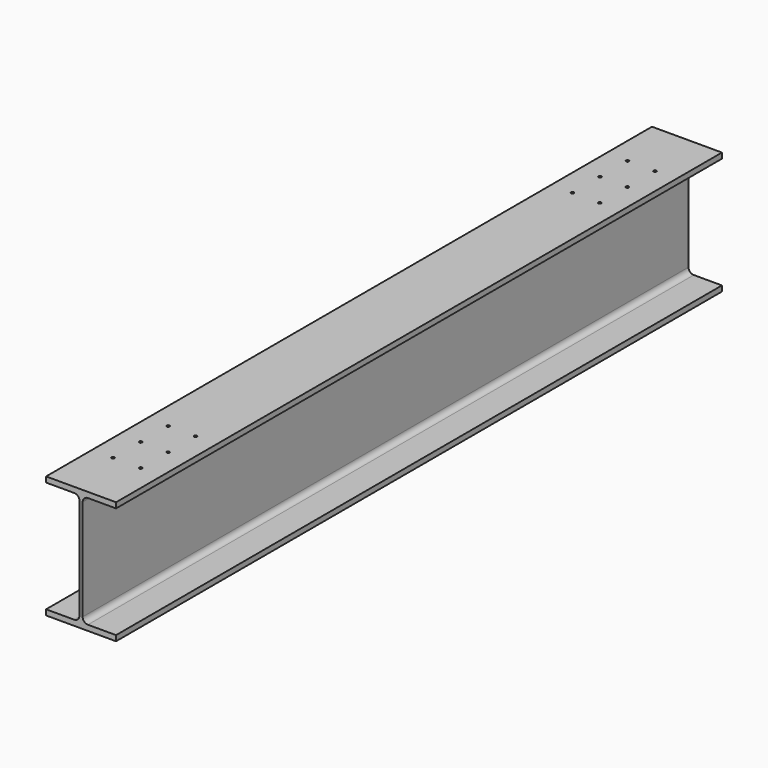
from build123d import *

# Parameters (mm, degrees)
F1_DEPTH = 1100
F3_D     = 4.2
F3_DEPTH = 50
F3_TIP   = 1.2618073


with BuildPart() as f1:
    # F0 (on Front) → F1 (new body)
    with BuildSketch(Plane.XZ):
        with BuildLine():
            Line((-9.95, -35.5939323668), (-50.8, -35.5939323668))
            Line((-50.8, -35.5939323668), (-50.8, -43.4939323668))
            Line((-50.8, -43.4939323668), (0, -43.4939323668))
            Line((0, -43.4939323668), (0, 134.3060676332))
            Line((0, 134.3060676332), (-50.8, 134.3060676332))
            Line((-50.8, 134.3060676332), (-50.8, 126.4060676332))
            Line((-50.8, 126.4060676332), (-9.95, 126.4060676332))
            ThreePointArc((-9.95, 126.4060676332), (-4.575988463, 124.1800791702), (-2.35, 118.8060676332))
            Line((-2.35, 118.8060676332), (-2.35, -27.9939323668))
            ThreePointArc((-2.35, -27.9939323668), (-4.575988463, -33.3679439038), (-9.95, -35.5939323668))
        make_face()
        with BuildLine():
            Line((0, 134.3060676332), (0, -43.4939323668))
            Line((0, -43.4939323668), (50.8, -43.4939323668))
            Line((50.8, -43.4939323668), (50.8, -35.5939323668))
            Line((50.8, -35.5939323668), (9.95, -35.5939323668))
            ThreePointArc((9.95, -35.5939323668), (4.575988463, -33.3679439038), (2.35, -27.9939323668))
            Line((2.35, -27.9939323668), (2.35, 118.8060676332))
            ThreePointArc((2.35, 118.8060676332), (4.575988463, 124.1800791702), (9.95, 126.4060676332))
            Line((9.95, 126.4060676332), (50.8, 126.4060676332))
            Line((50.8, 126.4060676332), (50.8, 134.3060676332))
            Line((50.8, 134.3060676332), (0, 134.3060676332))
        make_face()
    extrude(amount=F1_DEPTH)

    # F3
    with Locations(Plane.XY.offset(134.3060676332)):
        with Locations((-20, -1017), (-20, -967), (-20, -917), (20, -917), (20, -967), (20, -1017), (-20, -183), (-20, -133), (-20, -83), (20, -83), (20, -133), (20, -183)):
            Hole(F3_D / 2, depth=F3_DEPTH)
            with Locations((0, 0, -(F3_DEPTH + F3_TIP / 2))):  # 118° drill point
                Cone(0, F3_D / 2, F3_TIP, mode=Mode.SUBTRACT)


solid = f1.part
